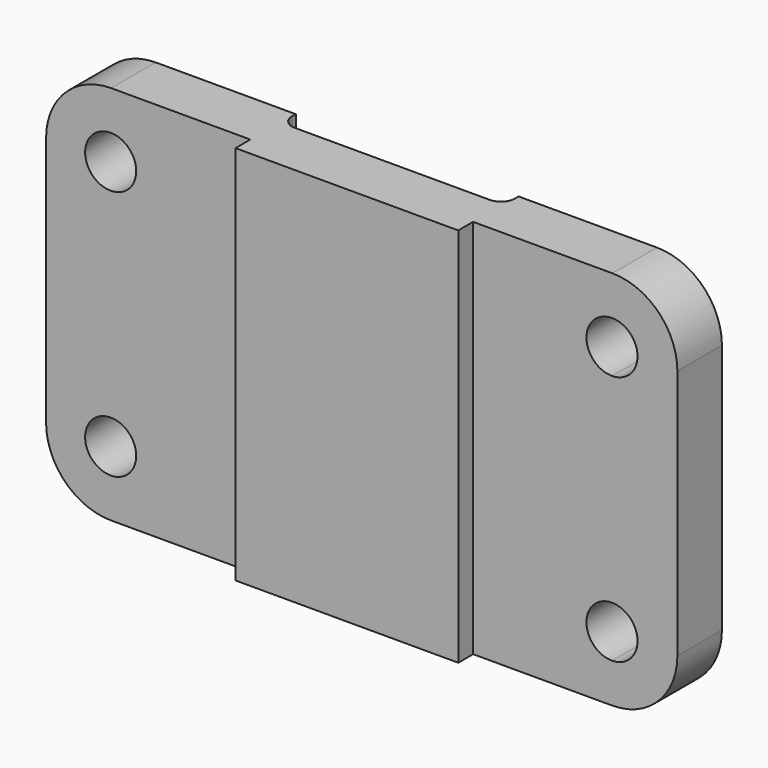
from build123d import *

# Parameters (mm, degrees)
F0_W     = 136
F0_H     = 82
F1_DEPTH = 12
F2_W     = 48
F2_H     = 82
F3_DEPTH = 4
F4_W     = 48
F4_H     = 82
F5_DEPTH = 4
F6_R     = 14
F7_R     = 5.5
F8_DEPTH = 16.001
F9_R     = 3


with BuildPart() as f1:
    # F0 (on Front) → F1 (new body)
    with BuildSketch(Plane.XZ):
        with Locations((68, 41)):
            Rectangle(F0_W, F0_H)
    extrude(amount=F1_DEPTH)

    # F2 (on face) → F3 (join)
    with BuildSketch(Plane.XZ.offset(12)):
        with Locations((68, 41)):
            Rectangle(F2_W, F2_H)
    extrude(amount=F3_DEPTH)

    # F4 (on face) → F5 (cut)
    with BuildSketch(Plane(origin=(0, 0, 0), x_dir=(-1, 0, 0), z_dir=(0, 1, 0))):
        with Locations((-68.19709, 41)):
            Rectangle(F4_W, F4_H)
    extrude(amount=-F5_DEPTH, mode=Mode.SUBTRACT)

    # F6
    f6_edges = [f1.edges().sort_by_distance(p)[0] for p in [
        (136, -6, 82),
        (0, -6, 82),
        (136, -6, 0),
        (0, -6, 0),
    ]]
    fillet(f6_edges, radius=F6_R)

    # F7 (on Front) → F8 (cut, through all)
    with BuildSketch(Plane.XZ):
        with BuildLine():
            Line((121.913074, 62.5), (121.913074, 73.5))
            ThreePointArc((121.913074, 73.5), (116.413074, 68), (121.913074, 62.5))
        make_face()
        with BuildLine():
            ThreePointArc((127.413074, 68), (125.802162, 71.889087), (121.913074, 73.5))
            Line((121.913074, 73.5), (121.913074, 62.5))
            ThreePointArc((121.913074, 62.5), (125.802162, 64.110913), (127.413074, 68))
        make_face()
        with BuildLine():
            ThreePointArc((127.413074, 14), (125.802162, 17.889087), (121.913074, 19.5))
            Line((121.913074, 19.5), (121.913074, 8.5))
            ThreePointArc((121.913074, 8.5), (125.802162, 10.110913), (127.413074, 14))
        make_face()
        with BuildLine():
            Line((121.913074, 8.5), (121.913074, 19.5))
            ThreePointArc((121.913074, 19.5), (116.413074, 14), (121.913074, 8.5))
        make_face()
        with Locations((13.913074, 14)):
            Circle(F7_R)
        with Locations((13.913074, 68)):
            Circle(F7_R)
    extrude(amount=F8_DEPTH, mode=Mode.SUBTRACT)

    # F9
    f9_edges = [f1.edges().sort_by_distance(p)[0] for p in [
        (92.19709, -4, 41),
        (44.19709, -4, 41),
    ]]
    fillet(f9_edges, radius=F9_R)


solid = f1.part
